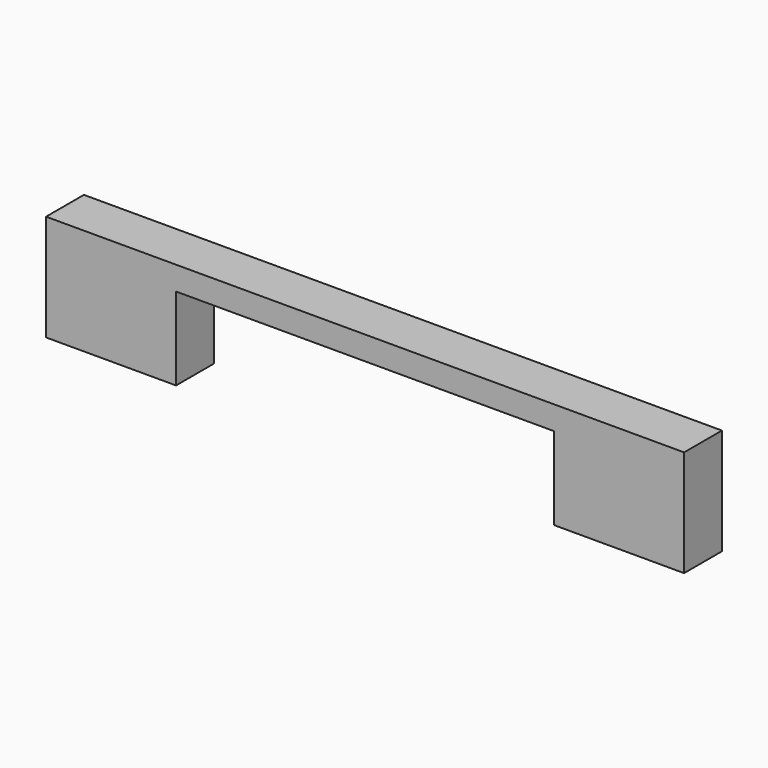
from build123d import *

# Parameters (mm, degrees)
F0_W     = 5.5
F0_H     = 2
F1_DEPTH = 3.5
F2_W     = 4.080000014
F2_H     = 2.080000014
F3_DEPTH = 1.25
F5_DEPTH = 2


with BuildPart() as f1:
    # F0 (on Top) → F1 (new body)
    with BuildSketch(Plane.XY):
        with Locations((1.7311600968, -1.5813936108)):
            Rectangle(F0_W, F0_H)
    extrude(amount=F1_DEPTH)

    # F2 (on face) → F3 (cut, through all)
    with BuildSketch(Plane(origin=(0, -0.5813936108, 0), x_dir=(-1, 0, 0), z_dir=(0, 1, 0))):
        with Locations((-1.7311600968, 1.75)):
            Rectangle(F2_W, F2_H)
    extrude(amount=-F3_DEPTH, mode=Mode.SUBTRACT)

    # F4 (on face) → F5 (join, through all)
    with BuildSketch(Plane(origin=(0, -0.5813936108, 0), x_dir=(-1, 0, 0), z_dir=(0, 1, 0))):
        Polygon((-4.4811600968, 4.5), (-4.4811600968, 3.5), (1.0188399032, 3.5), (9.0188399032, 3.5), (9.0188399032, 4.5), align=None)
    extrude(amount=-F5_DEPTH)

    # F6: F1 across face


with BuildPart() as f1_1:
    add(f1.part)
    add(f1.part.mirror(Plane(origin=(-9.0188399032, -1.5813936108, 4), x_dir=(0, -1, 0), z_dir=(-1, 0, 0))))


solid = f1_1.part
